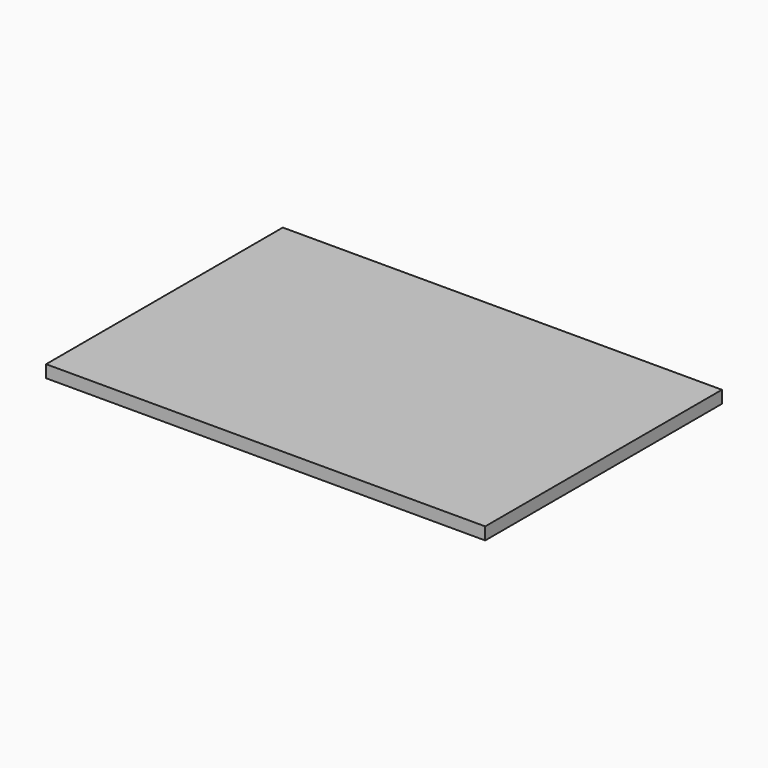
from build123d import *

# Parameters (mm, degrees)
F0_W     = 896.825
F0_H     = 600
F1_DEPTH = 3.175
F2_DEPTH = 25.4


with BuildPart() as f1:
    # F0 (on Top) → F1 (new body)
    with BuildSketch(Plane.XY):
        with Locations((448.4125, 300)):
            Rectangle(F0_W, F0_H)
    extrude(amount=F1_DEPTH)


with BuildPart() as f2:
    # F0 (on Top) → F2 (new body)
    with BuildSketch(Plane.XY):
        with Locations((448.4125, 300)):
            Rectangle(F0_W, F0_H)
        Polygon((896.825, 600), (896.825, 0), (900, 0), (900, 606.425), (0, 606.425), (0, 600), align=None)
    extrude(amount=F2_DEPTH)


solid = Compound([f1.part, f2.part])
